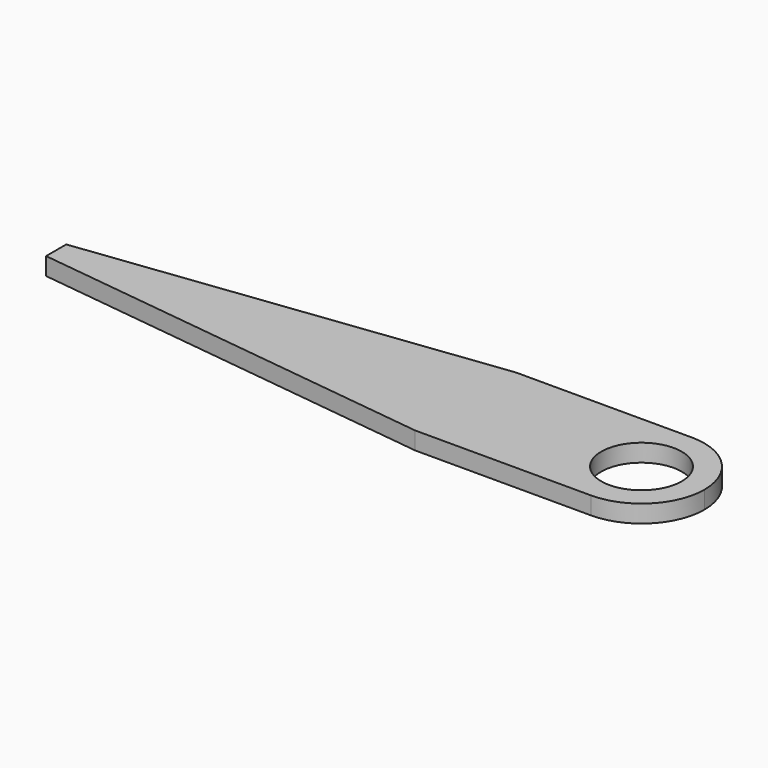
from build123d import *

# Parameters (mm, degrees)
F0_R     = 8
F1_DEPTH = 3.5
F2_W     = 20
F2_H     = 2.68282
F2_R     = 17.5
F2_R_2   = 12.5
F3_DEPTH = 2


with BuildPart() as f1:
    # F0 (on Top) → F1 (new body)
    with BuildSketch(Plane.XY):
        with BuildLine():
            ThreePointArc((0, -12.5), (8.838835, -8.838835), (12.5, 0))
            ThreePointArc((12.5, 0), (8.838835, 8.838835), (0, 12.5))
            ThreePointArc((0, 12.5), (-12.5, 0), (0, -12.5))
        make_face()
        Circle(F0_R, mode=Mode.SUBTRACT)
        with BuildLine():
            ThreePointArc((0, -12.5), (-12.5, 0), (0, 12.5))
            Line((0, 12.5), (-35, 12.5))
            Line((-35, 12.5), (-116.388784, 2.506714))
            Line((-116.388784, 2.506714), (-116.388784, -2.506714))
            Line((-116.388784, -2.506714), (-35, -12.5))
            Line((-35, -12.5), (0, -12.5))
        make_face()
    extrude(amount=F1_DEPTH)

    # F2 (on Top) → F3 (cut)
    with BuildSketch(Plane.XY):
        with Locations((-106.47232, 0.332368)):
            Rectangle(F2_W, F2_H)
        Circle(F2_R)
        Circle(F2_R_2, mode=Mode.SUBTRACT)
    extrude(amount=-F3_DEPTH, mode=Mode.SUBTRACT)


solid = f1.part
